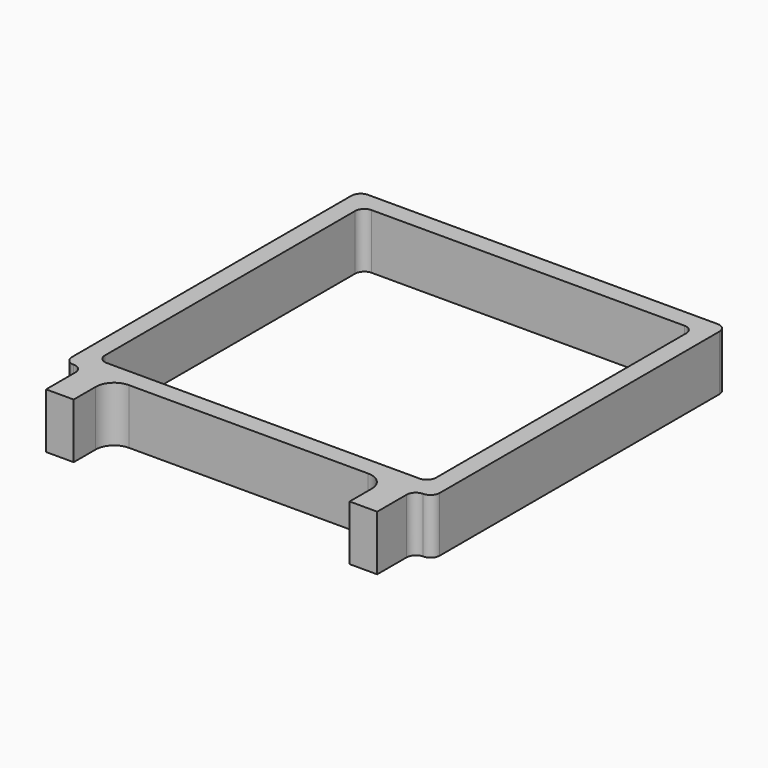
from build123d import *

# Parameters (mm, degrees)
F1_DEPTH = 19.05


with BuildPart() as f1:
    # F0 (on Top) → F1 (new body)
    with BuildSketch(Plane.XY):
        with BuildLine():
            Line((60.325, 63.5), (-60.325, 63.5))
            ThreePointArc((-60.325, 63.5), (-62.570064, 62.570064), (-63.5, 60.325))
            Line((-63.5, 60.325), (-63.5, -60.325))
            ThreePointArc((-63.5, -60.325), (-62.570064, -62.570064), (-60.325, -63.5))
            ThreePointArc((-60.325, -63.5), (-58.079936, -64.429936), (-57.15, -66.675))
            Line((-57.15, -66.675), (-57.15, -79.375))
            Line((-57.15, -79.375), (-47.625, -79.375))
            Line((-47.625, -79.375), (-47.625, -69.85))
            ThreePointArc((-47.625, -69.85), (-45.765128, -65.359872), (-41.275, -63.5))
            Line((-41.275, -63.5), (41.275, -63.5))
            ThreePointArc((41.275, -63.5), (45.765128, -65.359872), (47.625, -69.85))
            Line((47.625, -69.85), (47.625, -79.375))
            Line((47.625, -79.375), (57.15, -79.375))
            Line((57.15, -79.375), (57.15, -66.675))
            ThreePointArc((57.15, -66.675), (58.079936, -64.429936), (60.325, -63.5))
            ThreePointArc((60.325, -63.5), (62.570064, -62.570064), (63.5, -60.325))
            Line((63.5, -60.325), (63.5, 60.325))
            ThreePointArc((63.5, 60.325), (62.570064, 62.570064), (60.325, 63.5))
        make_face()
        with BuildLine():
            ThreePointArc((-57.15, 53.975), (-56.220064, 56.220064), (-53.975, 57.15))
            Line((-53.975, 57.15), (53.975, 57.15))
            ThreePointArc((53.975, 57.15), (56.220064, 56.220064), (57.15, 53.975))
            Line((57.15, 53.975), (57.15, -53.975))
            ThreePointArc((57.15, -53.975), (56.220064, -56.220064), (53.975, -57.15))
            Line((53.975, -57.15), (-53.975, -57.15))
            ThreePointArc((-53.975, -57.15), (-56.220064, -56.220064), (-57.15, -53.975))
            Line((-57.15, -53.975), (-57.15, 53.975))
        make_face(mode=Mode.SUBTRACT)
    extrude(amount=F1_DEPTH)


solid = f1.part
